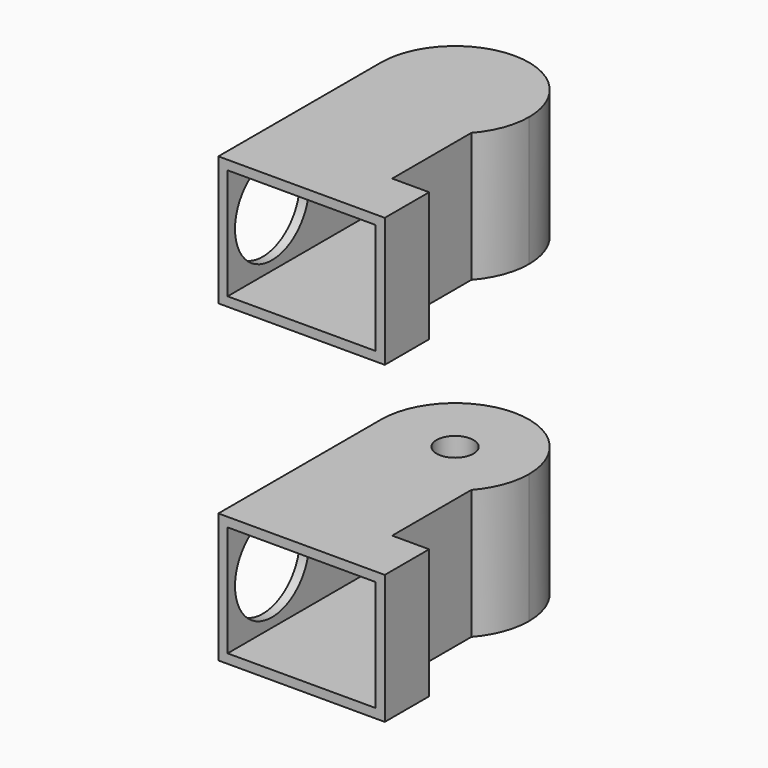
from build123d import *

# Parameters (mm, degrees)
F1_DEPTH = 7
F2_R     = 1
F3_DEPTH = 3
F4_T     = -0.5
F5_R     = 2.5
F6_DEPTH = 2


with BuildPart() as f1:
    # F0 (on Top) → F1 (new body)
    with BuildSketch(Plane.XY):
        with BuildLine():
            ThreePointArc((-4, 8), (-1.4142135624, 4.2583426132), (3, 5.3542486889))
            ThreePointArc((3, 5.3542486889), (3.7416573868, 6.5857864376), (4, 8))
            ThreePointArc((4, 8), (0, 12), (-4, 8))
        make_face()
        with BuildLine():
            Line((5, 0), (3, 0))
            Line((3, 0), (3, 5.3542486889))
            ThreePointArc((3, 5.3542486889), (-1.4142135624, 4.2583426132), (-4, 8))
            Line((-4, 8), (-4, -3))
            Line((-4, -3), (5, -3))
            Line((5, -3), (5, 0))
        make_face()
    extrude(amount=F1_DEPTH)

    # F2 (on face) → F3 (cut)
    with BuildSketch(Plane.XY.offset(7)):
        with Locations((0, 8)):
            Circle(F2_R)
    extrude(amount=-F3_DEPTH, mode=Mode.SUBTRACT)

    # F4
    f4_openings = [f1.faces().sort_by_distance(p)[0] for p in [
        (0.5, -3, 3.5),
    ]]
    offset(amount=F4_T, openings=f4_openings, kind=Kind.INTERSECTION)

    # F5 (on face) → F6 (cut)
    with BuildSketch(Plane(origin=(-4, 0, 0), x_dir=(0, -1, 0), z_dir=(-1, 0, 0))):
        with BuildLine():
            ThreePointArc((-8, 1), (-6.232233047, 1.732233047), (-5.5, 3.5))
            ThreePointArc((-5.5, 3.5), (-6.232233047, 5.267766953), (-8, 6))
            Line((-8, 6), (-8, 1))
        make_face()
        with BuildLine():
            Line((-8, 1), (-8, 6))
            ThreePointArc((-8, 6), (-10.5, 3.5), (-8, 1))
        make_face()
        with Locations((0, 3.5)):
            Circle(F5_R)
    extrude(amount=-F6_DEPTH, mode=Mode.SUBTRACT)


with BuildPart() as f8_1:
    # F8: instance of F1
    add(f1.part.mirror(Plane(origin=(-0.0779610261, 3.8834403375, 12), x_dir=(1, 0, 0), z_dir=(0, 0, 1))))


solid = Compound([f1.part, f8_1.part])
